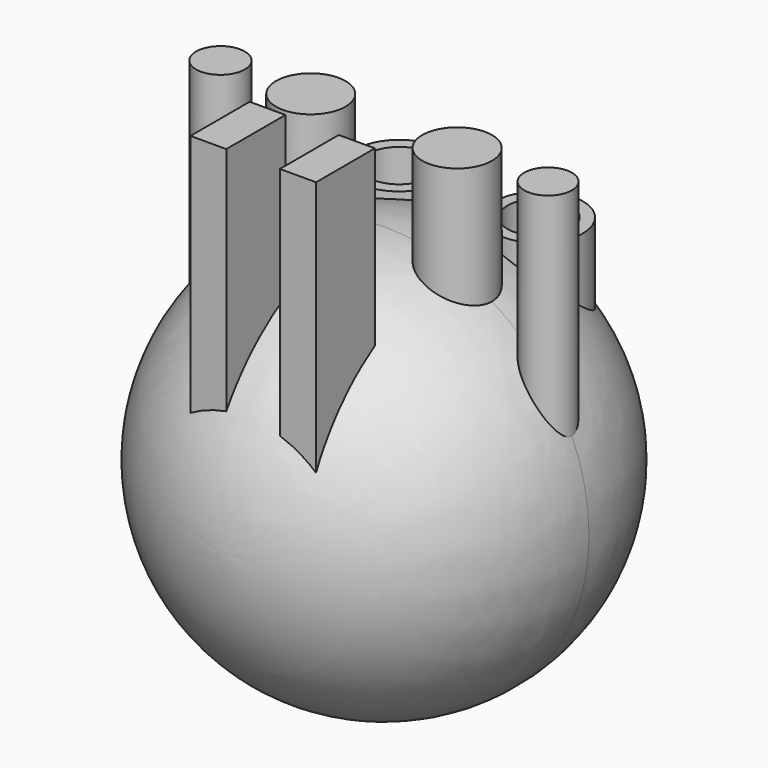
from build123d import *

# Parameters (mm, degrees)
F2_R      = 5.588
F3_DEPTH  = 25.4
F4_R      = 3.110961
F4_R_2    = 3.048
F4_R_3    = 4.445
F4_R_4    = 4.456735
F5_DEPTH  = 38.1
F6_W      = 4.572
F6_H      = 9.451226
F6_W_2    = 4.615715
F6_H_2    = 9.398
F7_DEPTH  = 43.18
F8_R      = 2.921
F9_DEPTH  = 7620
F10_R     = 4.052755
F10_R_2   = 4.0513
F11_DEPTH = 7620


with BuildPart() as f1:
    # F0 (on Top) → F1 (revolve)
    with BuildSketch(Plane.XY):
        with BuildLine():
            ThreePointArc((0, -26.198257), (18.524965, -18.524965), (26.198257, 0))
            ThreePointArc((26.198257, 0), (18.524965, 18.524965), (0, 26.198257))
            Line((0, 26.198257), (0, 0))
            Line((0, 0), (0, -26.198257))
        make_face()
    revolve(axis=Axis((0, -33.72445, 0), (0, -1, 0)))

    # F2 (on Top) → F3 (join)
    with BuildSketch(Plane.XY):
        with Locations((-8.019435, 12.443952)):
            Circle(F2_R)
        with Locations((9.862985, 12.443952)):
            Circle(F2_R)
    extrude(amount=F3_DEPTH)

    # F4 (on Top) → F5 (join)
    with BuildSketch(Plane.XY):
        with Locations((-20.902896, 0)):
            Circle(F4_R)
        with Locations((20.967599, 0)):
            Circle(F4_R_2)
        with Locations((-9.364246, 0)):
            Circle(F4_R_3)
        with Locations((9.346322, 0)):
            Circle(F4_R_4)
    extrude(amount=F5_DEPTH)

    # F6 (on Top) → F7 (join)
    with BuildSketch(Plane.XY):
        with Locations((-4.671858, -17.491644)):
            Rectangle(F6_W, F6_H)
        with Locations((6.77939, -17.518257)):
            Rectangle(F6_W_2, F6_H_2)
    extrude(amount=F7_DEPTH)

    # F8 (on Top) → F9 (cut)
    with BuildSketch(Plane.XY):
        with Locations((-7.210489, 12.670338)):
            Circle(F8_R)
        with Locations((9.092616, 12.670544)):
            Circle(F8_R)
    extrude(amount=-F9_DEPTH, mode=Mode.SUBTRACT)

    # F10 (on face) → F11 (cut)
    with BuildSketch(Plane.XY.offset(25.4)):
        with Locations((-8.019435, 12.443952)):
            Circle(F10_R)
        with Locations((9.868483, 12.4554)):
            Circle(F10_R_2)
    extrude(amount=-F11_DEPTH, mode=Mode.SUBTRACT)


solid = f1.part
